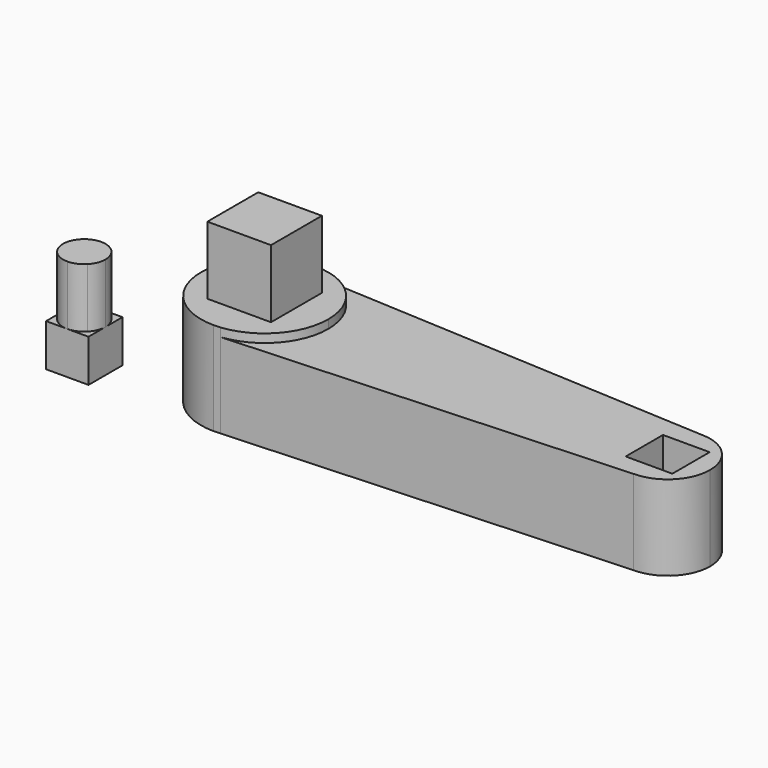
from build123d import *

# Parameters (mm, degrees)
F1_DEPTH  = 13.97
F2_DEPTH  = 12.7
F3_W      = 9.525
F3_H      = 9.525
F4_DEPTH  = 10.16
F6_DEPTH  = 24.131
F7_W      = 6.35
F7_H      = 6.35
F8_DEPTH  = 6.35
F11_DEPTH = 8.89


with BuildPart() as f1:
    # F0 (on Top) → F1 (new body)
    with BuildSketch(Plane.XY):
        with BuildLine():
            Line((10.524862, 18.997376), (9.525, 19.05))
            ThreePointArc((9.525, 19.05), (0, 9.525), (9.525, 0))
            Line((9.525, 0), (10.524862, 0.052624))
            ThreePointArc((10.524862, 0.052624), (16.604877, 3.153111), (19.05, 9.525))
            ThreePointArc((19.05, 9.525), (16.604877, 15.896889), (10.524862, 18.997376))
        make_face()
    extrude(amount=F1_DEPTH)

    # F0 (on Top) → F2 (join)
    with BuildSketch(Plane.XY):
        with BuildLine():
            Line((69.85, 15.875), (10.524862, 18.997376))
            ThreePointArc((10.524862, 18.997376), (16.604877, 15.896889), (19.05, 9.525))
            ThreePointArc((19.05, 9.525), (16.604877, 3.153111), (10.524862, 0.052624))
            Line((10.524862, 0.052624), (69.85, 3.175))
            Line((69.85, 3.175), (69.85, 9.525))
            Line((69.85, 9.525), (69.85, 15.875))
        make_face()
        with BuildLine():
            ThreePointArc((76.2, 9.525), (74.340128, 14.015128), (69.85, 15.875))
            Line((69.85, 15.875), (69.85, 9.525))
            Line((69.85, 9.525), (76.2, 9.525))
        make_face()
        with BuildLine():
            Line((69.85, 9.525), (69.85, 3.175))
            ThreePointArc((69.85, 3.175), (74.340128, 5.034872), (76.2, 9.525))
            Line((76.2, 9.525), (69.85, 9.525))
        make_face()
    extrude(amount=F2_DEPTH)

    # F3 (on face) → F4 (join)
    with BuildSketch(Plane.XY.offset(13.97)):
        with Locations((9.525, 9.525)):
            Rectangle(F3_W, F3_H)
    extrude(amount=F4_DEPTH)

    # F5 (on Top) → F6 (cut, through all)
    with BuildSketch(Plane.XY):
        Polygon((66.3575, 6.0325), (73.3425, 6.0325), (73.3425, 13.0175), (66.3575, 13.0175), (66.3575, 9.525), align=None)
    extrude(amount=F6_DEPTH, mode=Mode.SUBTRACT)


with BuildPart() as f8:
    # F7 (on Top) → F8 (new body)
    with BuildSketch(Plane.XY):
        with Locations((-12.392557, 3.175)):
            Rectangle(F7_W, F7_H)
    extrude(amount=F8_DEPTH)

    # F10 (on face) → F11 (join)
    with BuildSketch(Plane.XY.offset(6.35)):
        with BuildLine():
            ThreePointArc((-10.147493, 5.420064), (-11.177537, 6.108318), (-12.392557, 6.35))
            ThreePointArc((-12.392557, 6.35), (-13.607577, 6.108318), (-14.637621, 5.420064))
            ThreePointArc((-14.637621, 5.420064), (-15.325874, 4.39002), (-15.567557, 3.175))
            ThreePointArc((-15.567557, 3.175), (-15.325874, 1.95998), (-14.637621, 0.929936))
            ThreePointArc((-14.637621, 0.929936), (-13.607577, 0.241682), (-12.392557, 0))
            ThreePointArc((-12.392557, 0), (-11.177537, 0.241682), (-10.147493, 0.929936))
            ThreePointArc((-10.147493, 0.929936), (-9.459239, 1.95998), (-9.217557, 3.175))
            ThreePointArc((-9.217557, 3.175), (-9.459239, 4.39002), (-10.147493, 5.420064))
        make_face()
    extrude(amount=F11_DEPTH)


solid = Compound([f1.part, f8.part])
